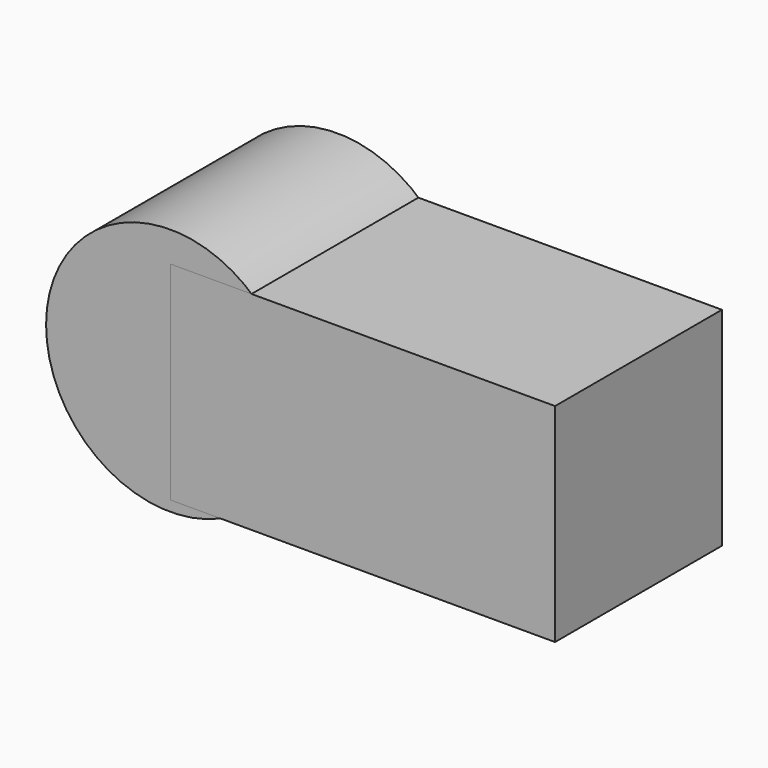
from build123d import *

# Parameters (mm, degrees)
F0_R     = 5.455
F0_R_2   = 4.045
F1_DEPTH = 1.8
F0_R_3   = 2.625
F0_R_4   = 1.685
F3_R     = 1.49
F4_DEPTH = 2.5
F5_W     = 4.61
F5_H     = 2.49
F6_DEPTH = 2.5


with BuildPart() as f1:
    # F0 (on Front) → F1 (new body)
    with BuildSketch(Plane.XZ):
        Circle(F0_R)
        Circle(F0_R_2, mode=Mode.SUBTRACT)
    extrude(amount=F1_DEPTH)


with BuildPart() as f1b:
    # F0 (on Front) → F1, piece 2 (new body)
    with BuildSketch(Plane.XZ):
        Circle(F0_R_3)
        Circle(F0_R_4, mode=Mode.SUBTRACT)
    extrude(amount=F1_DEPTH)


with BuildPart() as f4:
    # F3 (on Front) → F4 (new body)
    with BuildSketch(Plane.XZ):
        Circle(F3_R)
    extrude(amount=F4_DEPTH)


with BuildPart() as f6:
    # F5 (on Front) → F6 (new body, through all)
    with BuildSketch(Plane.XZ):
        with Locations((2.305, -0.1189748681)):
            Rectangle(F5_W, F5_H)
    extrude(amount=F6_DEPTH)


solid = Compound([f4.part, f6.part])
